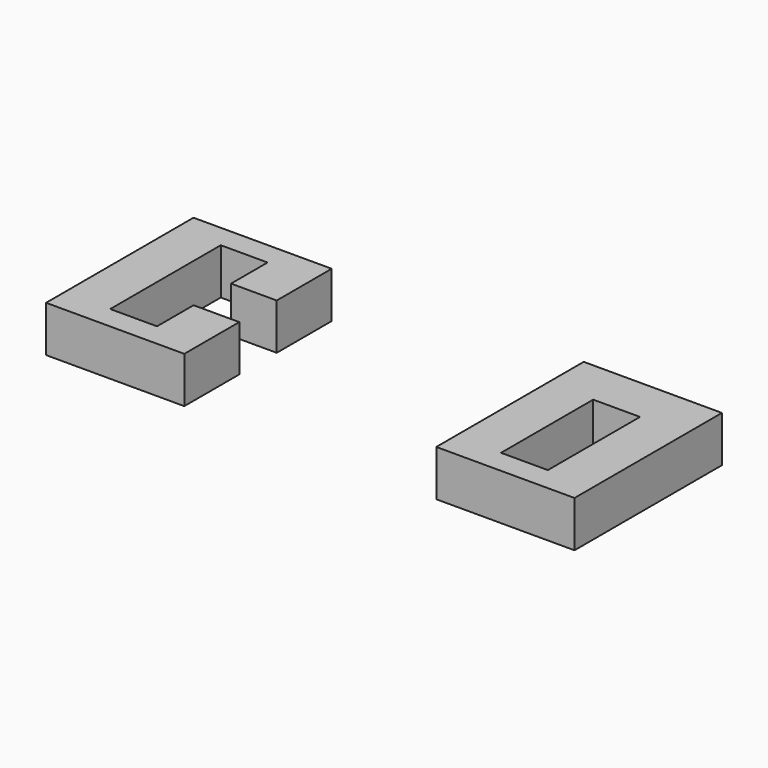
from build123d import *

# Parameters (mm, degrees)
F0_W     = 30
F0_H     = 40
F0_W_2   = 10.16
F0_H_2   = 25
F1_DEPTH = 10


with BuildPart() as f1:
    # F0 (on Top) → F1 (new body)
    with BuildSketch(Plane.XY):
        Polygon((-51.254819, 31.954766), (-51.254819, 46.874766), (-81.254819, 46.874766), (-81.254819, 6.874766), (-51.254819, 6.874766), (-51.254819, 21.794766), (-61.174819, 21.794766), (-61.174819, 11.874766), (-71.334819, 11.874766), (-71.334819, 41.874766), (-61.174819, 41.874766), (-61.174819, 31.954766), align=None)
        with Locations((18.444153, 26.874766)):
            Rectangle(F0_W, F0_H)
        with Locations((18.444153, 24.544766)):
            Rectangle(F0_W_2, F0_H_2, mode=Mode.SUBTRACT)
    extrude(amount=F1_DEPTH)


solid = f1.part
